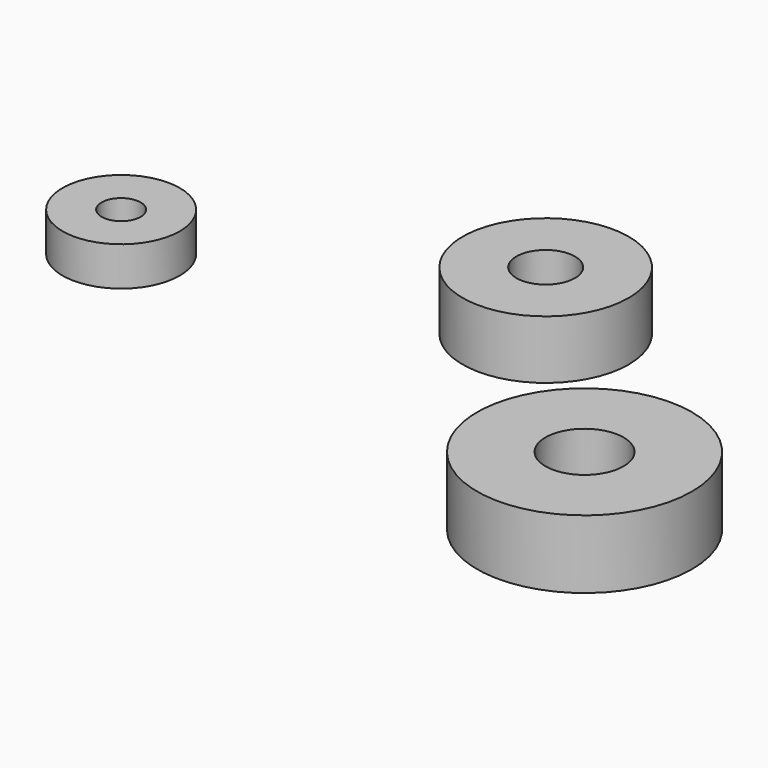
from build123d import *

# Parameters (mm, degrees)
F0_R     = 11
F0_R_2   = 4
F1_DEPTH = 7
F0_R_3   = 6
F0_R_4   = 2
F2_DEPTH = 4
F0_R_5   = 8.5
F0_R_6   = 3
F3_DEPTH = 6


with BuildPart() as f1:
    # F0 (on Top) → F1 (new body)
    with BuildSketch(Plane.XY):
        Circle(F0_R)
        Circle(F0_R_2, mode=Mode.SUBTRACT)
    extrude(amount=F1_DEPTH)


with BuildPart() as f2:
    # F0 (on Top) → F2 (new body)
    with BuildSketch(Plane.XY):
        with Locations((-58.717016, 14.103145)):
            Circle(F0_R_3)
        with Locations((-58.717016, 14.103145)):
            Circle(F0_R_4, mode=Mode.SUBTRACT)
    extrude(amount=F2_DEPTH)


with BuildPart() as f3:
    # F0 (on Top) → F3 (new body)
    with BuildSketch(Plane.XY):
        with Locations((-23.585057, 24.507875)):
            Circle(F0_R_5)
        with Locations((-23.585057, 24.507875)):
            Circle(F0_R_6, mode=Mode.SUBTRACT)
    extrude(amount=F3_DEPTH)


solid = Compound([f1.part, f2.part, f3.part])
